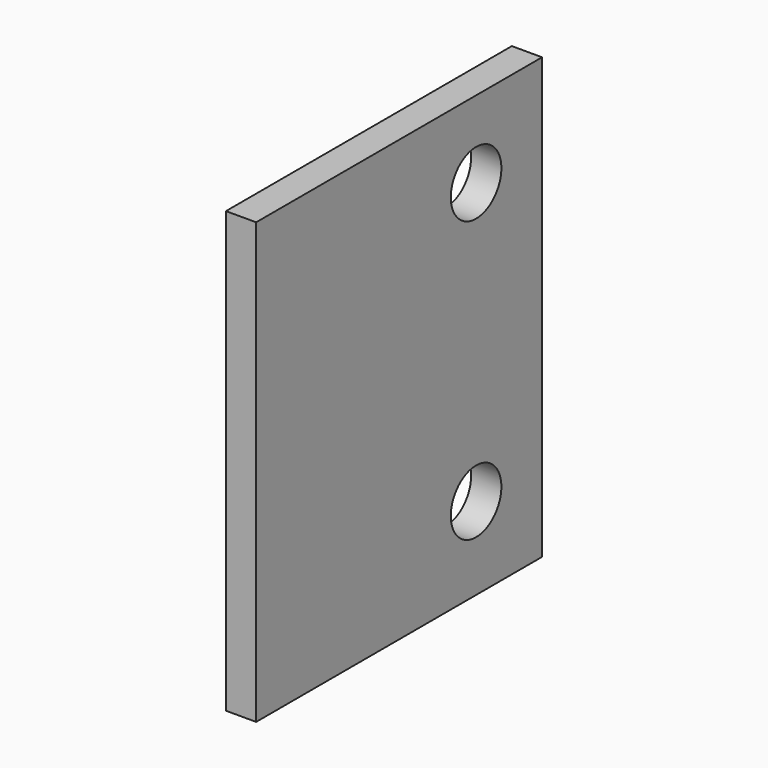
from build123d import *

# Parameters (mm, degrees)
F0_W     = 65
F0_H     = 80
F0_R     = 5.75
F1_DEPTH = 5.5


with BuildPart() as f1:
    # F0 (on Right) → F1 (new body)
    with BuildSketch(Plane.YZ):
        Rectangle(F0_W, F0_H)
        with Locations((17.5, -25)):
            Circle(F0_R, mode=Mode.SUBTRACT)
        with Locations((17.5, 26)):
            Circle(F0_R, mode=Mode.SUBTRACT)
    extrude(amount=F1_DEPTH)


solid = f1.part
